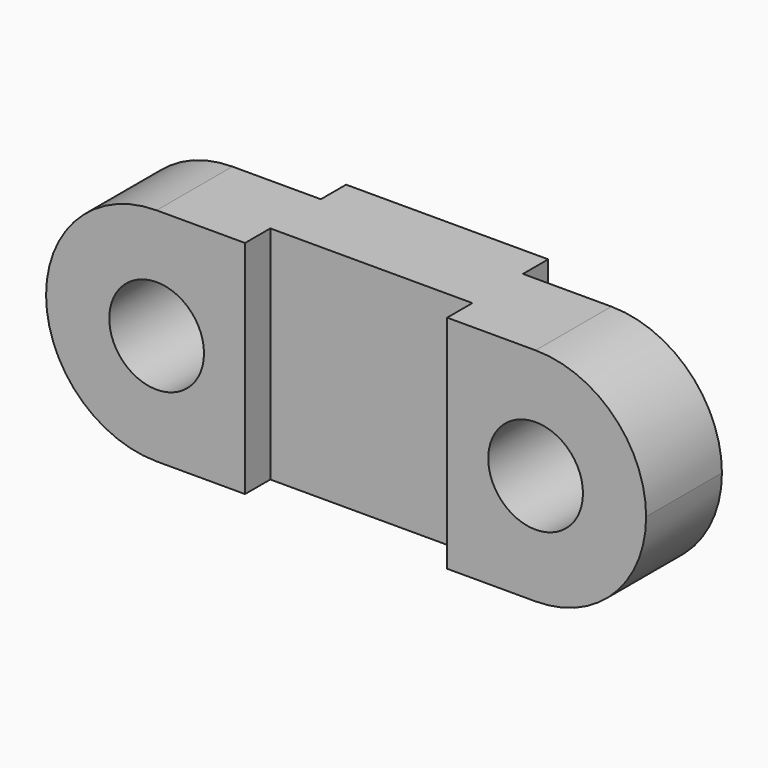
from build123d import *

# Parameters (mm, degrees)
F0_R     = 15
F0_W     = 32
F0_H     = 70
F1_DEPTH = 30
F2_W     = 64
F2_H     = 70
F3_DEPTH = 10
F4_W     = 64
F4_H     = 70
F5_DEPTH = 10


with BuildPart() as f1:
    # F0 (on Front) → F1 (new body)
    with BuildSketch(Plane.XZ):
        with BuildLine():
            Line((-32, -35), (-32, 35))
            Line((-32, 35), (-60, 35))
            ThreePointArc((-60, 35), (-84.7487373415, 24.7487373415), (-95, 0))
            ThreePointArc((-95, 0), (-84.7487373415, -24.7487373415), (-60, -35))
            Line((-60, -35), (-32, -35))
        make_face()
        with Locations((-60, 0)):
            Circle(F0_R, mode=Mode.SUBTRACT)
        with Locations((-16, 0)):
            Rectangle(F0_W, F0_H)
        with Locations((16, 0)):
            Rectangle(F0_W, F0_H)
        with BuildLine():
            ThreePointArc((95, 0), (84.7487373415, 24.7487373415), (60, 35))
            Line((60, 35), (32, 35))
            Line((32, 35), (32, -35))
            Line((32, -35), (60, -35))
            ThreePointArc((60, -35), (84.7487373415, -24.7487373415), (95, 0))
        make_face()
        with Locations((60, 0)):
            Circle(F0_R, mode=Mode.SUBTRACT)
    extrude(amount=F1_DEPTH)

    # F2 (on face) → F3 (cut)
    with BuildSketch(Plane.XZ.offset(30)):
        Rectangle(F2_W, F2_H)
    extrude(amount=-F3_DEPTH, mode=Mode.SUBTRACT)

    # F4 (on face) → F5 (join)
    with BuildSketch(Plane(origin=(0, 0, 0), x_dir=(-1, 0, 0), z_dir=(0, 1, 0))):
        Rectangle(F4_W, F4_H)
    extrude(amount=F5_DEPTH)


solid = f1.part
